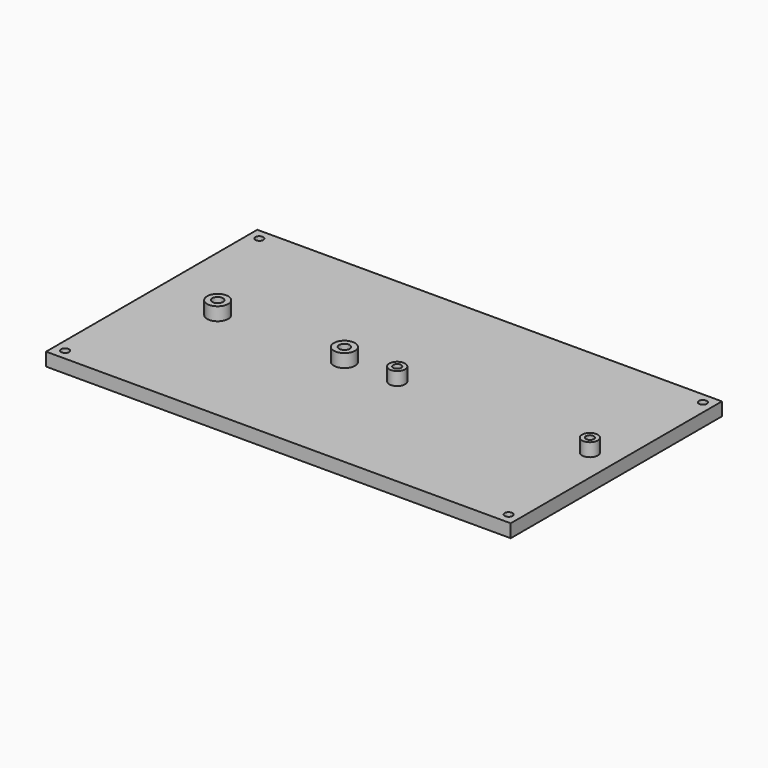
from build123d import *

# Parameters (mm, degrees)
F0_W     = 176
F0_H     = 100
F0_R     = 4
F0_R_2   = 3
F1_DEPTH = 5
F0_R_3   = 2
F0_R_4   = 1.5
F2_DEPTH = 10
F4_R     = 1.5
F5_DEPTH = 10.001
F4_R_2   = 2.5
F6_DEPTH = 1.5


with BuildPart() as f1:
    # F0 (on Top) → F1 (new body)
    with BuildSketch(Plane.XY):
        Rectangle(F0_W, F0_H)
        with Locations((-63, 0)):
            Circle(F0_R, mode=Mode.SUBTRACT)
        with Locations((-15, 0)):
            Circle(F0_R, mode=Mode.SUBTRACT)
        with Locations((5, 0)):
            Circle(F0_R_2, mode=Mode.SUBTRACT)
        with Locations((78, 0)):
            Circle(F0_R_2, mode=Mode.SUBTRACT)
        Rectangle(F0_W, F0_H)
        with Locations((-63, 0)):
            Circle(F0_R, mode=Mode.SUBTRACT)
        with Locations((-15, 0)):
            Circle(F0_R, mode=Mode.SUBTRACT)
        with Locations((5, 0)):
            Circle(F0_R_2, mode=Mode.SUBTRACT)
        with Locations((78, 0)):
            Circle(F0_R_2, mode=Mode.SUBTRACT)
    extrude(amount=F1_DEPTH)

    # F0 (on Top) → F2 (join)
    with BuildSketch(Plane.XY):
        with Locations((-63, 0)):
            Circle(F0_R)
        with Locations((-63, 0)):
            Circle(F0_R_3, mode=Mode.SUBTRACT)
        with Locations((-15, 0)):
            Circle(F0_R)
        with Locations((-15, 0)):
            Circle(F0_R_3, mode=Mode.SUBTRACT)
        with Locations((5, 0)):
            Circle(F0_R_2)
        with Locations((5, 0)):
            Circle(F0_R_4, mode=Mode.SUBTRACT)
        with Locations((78, 0)):
            Circle(F0_R_2)
        with Locations((78, 0)):
            Circle(F0_R_4, mode=Mode.SUBTRACT)
    extrude(amount=F2_DEPTH)

    # F4 (on face) → F5 (cut, through all)
    with BuildSketch(Plane(origin=(0, 0, 0), x_dir=(1, 0, 0), z_dir=(0, 0, -1))):
        with Locations((-84, 46)):
            Circle(F4_R)
        with Locations((-84, -46)):
            Circle(F4_R)
        with Locations((84, 46)):
            Circle(F4_R)
        with Locations((84, -46)):
            Circle(F4_R)
    extrude(amount=-F5_DEPTH, mode=Mode.SUBTRACT)

    # F4 (on face) → F6 (cut)
    with BuildSketch(Plane(origin=(0, 0, 0), x_dir=(1, 0, 0), z_dir=(0, 0, -1))):
        with Locations((84, -46)):
            Circle(F4_R_2)
        with Locations((84, -46)):
            Circle(F4_R, mode=Mode.SUBTRACT)
        with Locations((84, 46)):
            Circle(F4_R_2)
        with Locations((84, 46)):
            Circle(F4_R, mode=Mode.SUBTRACT)
        with Locations((-84, 46)):
            Circle(F4_R_2)
        with Locations((-84, 46)):
            Circle(F4_R, mode=Mode.SUBTRACT)
        with Locations((-84, -46)):
            Circle(F4_R_2)
        with Locations((-84, -46)):
            Circle(F4_R, mode=Mode.SUBTRACT)
    extrude(amount=-F6_DEPTH, mode=Mode.SUBTRACT)


solid = f1.part
